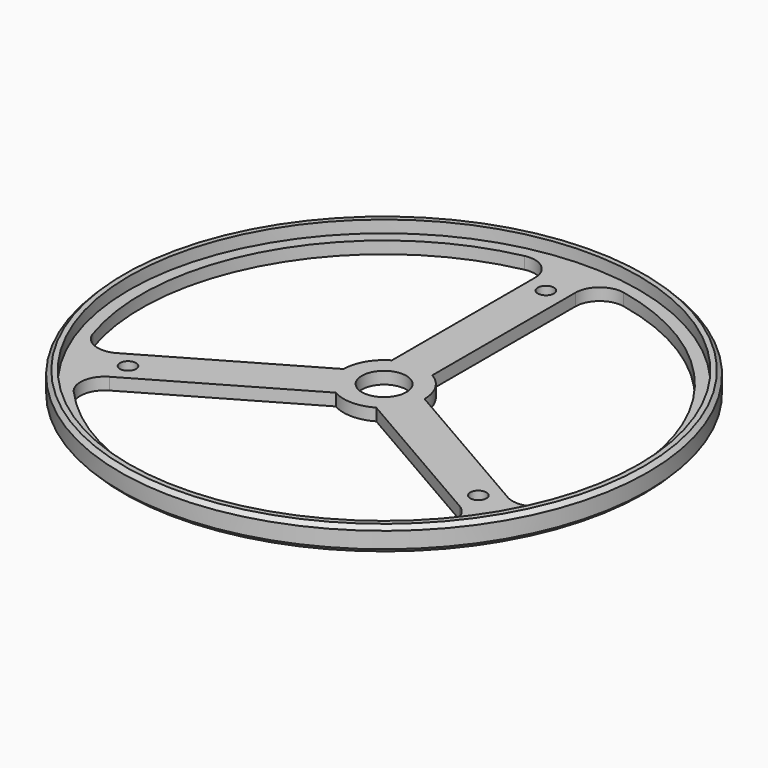
from build123d import *

# Parameters (mm, degrees)
SKETCH005_R           = 65.25
PAD001_DEPTH          = 6
SKETCH004_R           = 5.5
POCKET002_DEPTH       = 6.001
SKETCH003_R           = 2
POCKET003_DEPTH       = 375.305752
POLARPATTERN001_COUNT = 3
CHAMFER_SIZE          = 1
FILLET_R              = 6
SKETCH006_R           = 63
POCKET004_DEPTH       = 3


with BuildPart() as part:
    # Sketch005 → Pad001 (new body)
    with BuildSketch(Plane.XY):
        Circle(SKETCH005_R)
    extrude(amount=PAD001_DEPTH)

    # Sketch004 → Pocket002 (cut, through all)
    with BuildSketch(Plane.XY):
        Circle(SKETCH004_R)
    extrude(amount=POCKET002_DEPTH, mode=Mode.SUBTRACT)

    # Sketch003 → Pocket003 (cut, through all)
    with BuildSketch(Plane.XY):
        with Locations((0, 50)):
            Circle(SKETCH003_R)
        with BuildLine():
            ThreePointArc((-5, 59.791304), (-51.961524, 30), (-54.280788, -25.565525))
            Line((-10, 0), (-54.280788, -25.565525))
            ThreePointArc((-5, 8.660254), (-8.660254, 5), (-10, 0))
            Line((-5, 8.660254), (-5, 59.791304))
        make_face()
    pocket003 = extrude(amount=POCKET003_DEPTH, mode=Mode.SUBTRACT)

    # PolarPattern001: Pocket003 ×3 about axis
    polarpattern001_axis = Axis((0, 0, 0), (0, 0, 1))
    for i in range(1, POLARPATTERN001_COUNT):
        add(pocket003.rotate(polarpattern001_axis, i * 360 / POLARPATTERN001_COUNT), mode=Mode.SUBTRACT)

    # Chamfer
    chamfer_edges = [part.edges().sort_by_distance(p)[0] for p in [
        (-65.25, 0, 6),
        (-65.25, 0, 0),
    ]]
    chamfer(chamfer_edges, length=CHAMFER_SIZE)

    # Fillet
    fillet_edges = [part.edges().sort_by_distance(p)[0] for p in [
        (-54.280788, -25.565525, 3),
        (-5, 59.791304, 3),
        (5, 59.791304, 3),
        (54.280788, -25.565525, 3),
        (49.280788, -34.225779, 3),
        (-49.280788, -34.225779, 3),
    ]]
    fillet(fillet_edges, radius=FILLET_R)

    # Sketch006 (on Face25 of Fillet) → Pocket004 (cut)
    with BuildSketch(Plane.XY.offset(6)):
        Circle(SKETCH006_R)
    extrude(amount=-POCKET004_DEPTH, mode=Mode.SUBTRACT)


with BuildPart() as part_1:
    # Body001 placement: moved
    add(part.part.moved(Location((0, 0, 18))))


solid = part_1.part
